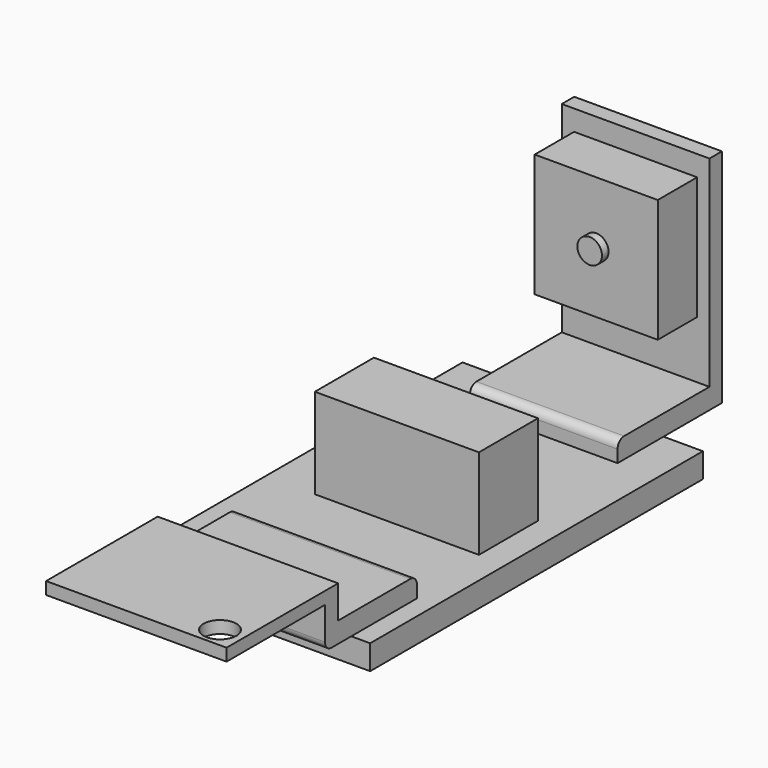
from build123d import *

# Parameters (mm, degrees)
SKETCH_W      = 29.3
SKETCH_H      = 50.7
PAD_DEPTH     = 3
SKETCH001_W   = 18
SKETCH001_H   = 14
SKETCH001_W_2 = 22
PAD001_DEPTH  = 2.5
FILLET_R      = 1
SKETCH002_W   = 18
SKETCH002_H   = 27
PAD002_DEPTH  = 1.9
SKETCH003_W   = 15
SKETCH003_H   = 15
PAD003_DEPTH  = 6
SKETCH004_R   = 1.5
PAD004_DEPTH  = 1
SKETCH005_W   = 22
SKETCH005_H   = 2
PAD005_DEPTH  = 2.5
SKETCH006_W   = 22
SKETCH006_H   = 17
PAD006_DEPTH  = 1.5
SKETCH007_R   = 2
POCKET_DEPTH  = 5
SKETCH008_W   = 20
SKETCH008_H   = 9
PAD007_DEPTH  = 11
FILLET001_R   = 1


with BuildPart() as part:
    # Sketch → Pad (new body)
    with BuildSketch(Plane.XY):
        Rectangle(SKETCH_W, SKETCH_H)
    extrude(amount=PAD_DEPTH)

    # Sketch001 → Pad001 (new body)
    with BuildSketch(Plane.XY.offset(3)):
        with Locations((0.85, 25.35)):
            Rectangle(SKETCH001_W, SKETCH001_H)
        with Locations((1.35, -22.35)):
            Rectangle(SKETCH001_W_2, SKETCH001_H)
    extrude(amount=PAD001_DEPTH)

    # Fillet
    fillet_edges = [part.edges().sort_by_distance(p)[0] for p in [
        (0.85, 18.35, 5.5),
        (1.35, -15.35, 5.5),
    ]]
    fillet(fillet_edges, radius=FILLET_R)

    # Sketch002 → Pad002 (new body)
    with BuildSketch(Plane(origin=(0, 32.35, 0), x_dir=(-1, 0, 0), z_dir=(0, 1, 0))):
        with Locations((-0.85, 16.5)):
            Rectangle(SKETCH002_W, SKETCH002_H)
    extrude(amount=PAD002_DEPTH)

    # Sketch003 → Pad003 (new body)
    with BuildSketch(Plane.XZ.offset(-32.35)):
        with Locations((0.85, 20)):
            Rectangle(SKETCH003_W, SKETCH003_H)
    extrude(amount=PAD003_DEPTH)

    # Sketch004 → Pad004 (new body)
    with BuildSketch(Plane.XZ.offset(-26.35)):
        with Locations((0.85, 20)):
            Circle(SKETCH004_R)
    extrude(amount=PAD004_DEPTH)

    # Sketch005 → Pad005 (new body)
    with BuildSketch(Plane.XY.offset(5.5)):
        with Locations((1.35, -28.35)):
            Rectangle(SKETCH005_W, SKETCH005_H)
    extrude(amount=PAD005_DEPTH)

    # Sketch006 → Pad006 (new body)
    with BuildSketch(Plane.XY.offset(8)):
        with Locations((1.35, -35.85)):
            Rectangle(SKETCH006_W, SKETCH006_H)
    extrude(amount=PAD006_DEPTH)

    # Sketch007 → Pocket (cut)
    with BuildSketch(Plane.XY.offset(9.5)):
        with Locations((9.55, -41.85)):
            Circle(SKETCH007_R)
    extrude(amount=-POCKET_DEPTH, mode=Mode.SUBTRACT)

    # Sketch008 → Pad007 (new body)
    with BuildSketch(Plane.XY.offset(3)):
        with Locations((1.35, -0.15)):
            Rectangle(SKETCH008_W, SKETCH008_H)
    extrude(amount=PAD007_DEPTH)

    # Fillet001
    fillet001_edges = [part.edges().sort_by_distance(p)[0] for p in [
        (1.35, -29.35, 3),
    ]]
    fillet(fillet001_edges, radius=FILLET001_R)


solid = part.part
